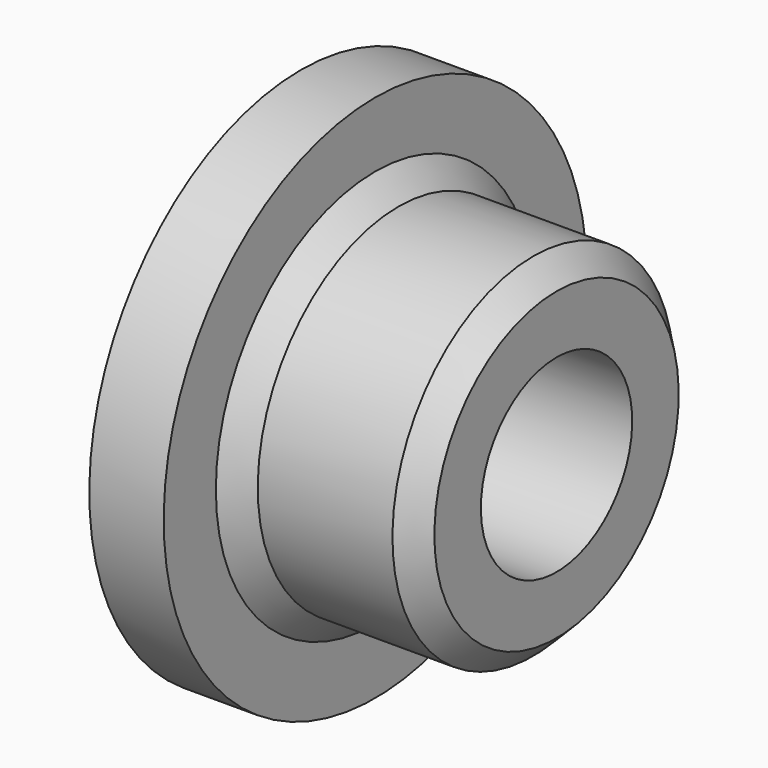
from build123d import *

# Parameters (mm, degrees)
F0_W    = 38.9051344246
F0_H    = 17.4791160971
F0_W_2  = 15.9755367786
F0_H_2  = 18.9827010036
F2_SIZE = 5


with BuildPart() as f1:
    # F0 (on Front) → F1 (revolve)
    with BuildSketch(Plane.XZ):
        with Locations((35.4281039909, 29.0378881618)):
            Rectangle(F0_W, F0_H)
        with Locations((7.9877683893, 29.0378881618)):
            Rectangle(F0_W_2, F0_H)
        with Locations((7.9877683893, 47.2687967122)):
            Rectangle(F0_W_2, F0_H_2)
    revolve(axis=Axis((25.3729112446, 0, 0), (1, 0, 0)))

    # F2
    f2_edges = [f1.edges().sort_by_distance(p)[0] for p in [
        (15.975537, 0, -37.777446),
        (54.880671, 0, -37.777446),
    ]]
    chamfer(f2_edges, length=F2_SIZE)


solid = f1.part
